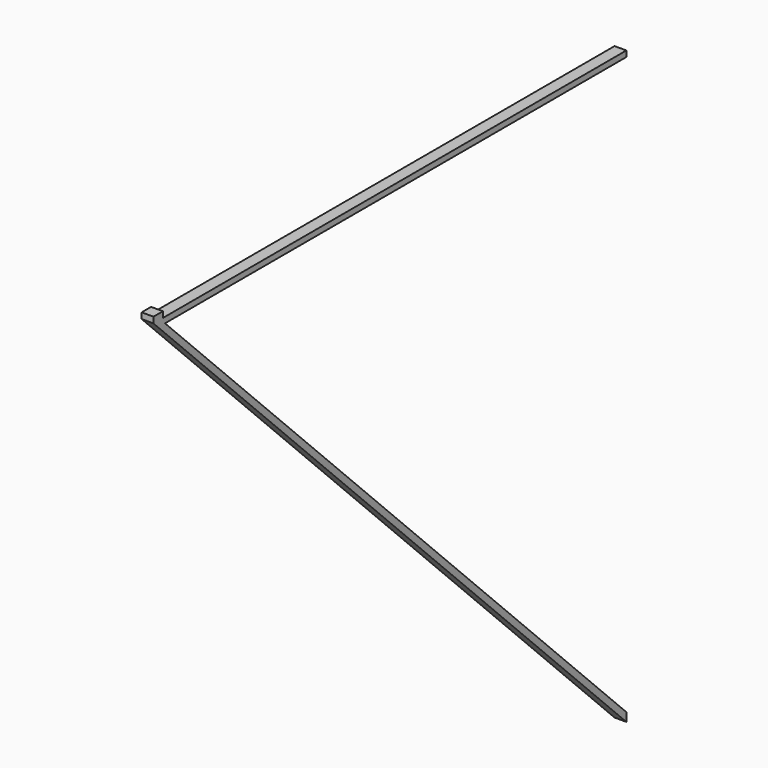
from build123d import *

# Parameters (mm, degrees)
F1_DEPTH = 10
F2_W     = 10
F2_H     = 10
F3_DEPTH = 5


with BuildPart() as f1:
    # F0 (on Right) → F1 (new body)
    with BuildSketch(Plane.YZ):
        Polygon((0, -4.91692), (0, 0), (-500, 0), (0, -500), (0, -492.686017), (-487.769097, -4.91692), align=None)
    extrude(amount=F1_DEPTH)

    # F2 (on face) → F3 (join)
    with BuildSketch(Plane.XY):
        with Locations((5, -495)):
            Rectangle(F2_W, F2_H)
    extrude(amount=F3_DEPTH)


solid = f1.part
